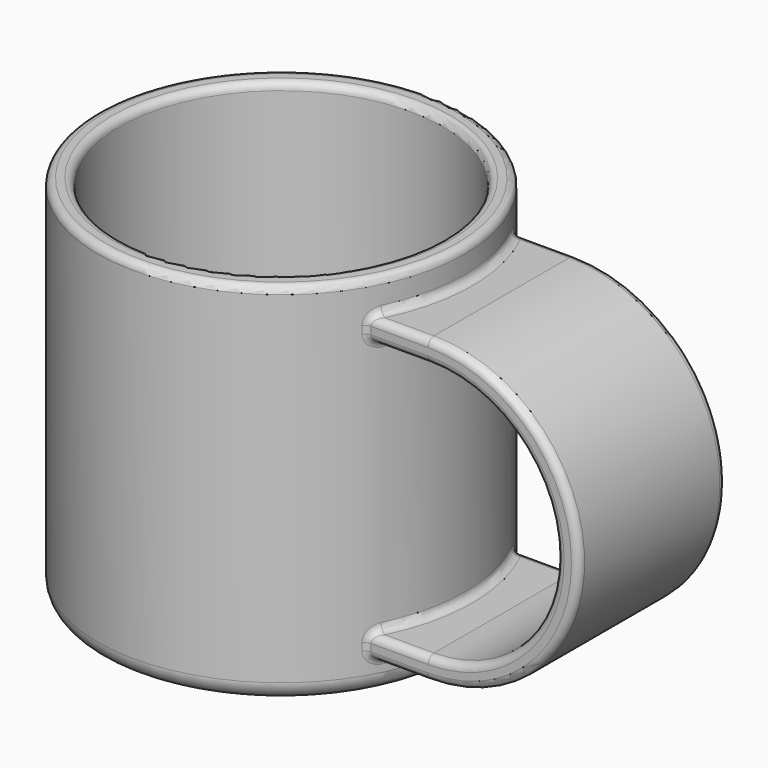
from build123d import *

# Parameters (mm, degrees)
SKETCH_R     = 50
PAD_DEPTH    = 100
PAD001_DEPTH = 25
SKETCH002_R  = 44
POCKET_DEPTH = 96
FILLET_R     = 2
FILLET001_R  = 2
FILLET002_R  = 5


with BuildPart() as part:
    # Sketch → Pad (new body)
    with BuildSketch(Plane.XY):
        Circle(SKETCH_R)
    extrude(amount=PAD_DEPTH)

    # Sketch001 → Pad001 (join, symmetric)
    with BuildSketch(Plane.XZ):
        with BuildLine():
            ThreePointArc((60, 9), (101, 50), (60, 91))
            Line((0, 91), (60, 91))
            Line((0, 85), (0, 91))
            Line((60, 85), (0, 85))
            ThreePointArc((60, 15), (95, 50), (60, 85))
            Line((60, 15), (0, 15))
            Line((0, 9), (0, 15))
            Line((0, 9), (60, 9))
        make_face()
    extrude(amount=PAD001_DEPTH, both=True)

    # Sketch002 (on Face8 of Pad001) → Pocket (cut)
    with BuildSketch(Plane.XY.offset(100)):
        Circle(SKETCH002_R)
    extrude(amount=-POCKET_DEPTH, mode=Mode.SUBTRACT)

    # Fillet
    fillet_edges = [part.edges().sort_by_distance(p)[0] for p in [
        (-44, 0, 100),
        (-50, 0, 100),
        (-44, 0, 4),
        (101, -25, 50),
        (95, -25, 50),
        (101, 25, 50),
        (95, 25, 50),
    ]]
    fillet(fillet_edges, radius=FILLET_R)

    # Fillet001
    fillet001_edges = [part.edges().sort_by_distance(p)[0] for p in [
        (48.578788, -11.836442, 91),
        (48.578788, -11.836442, 85),
        (48.578788, -11.836442, 15),
        (48.578788, -11.836442, 9),
    ]]
    fillet(fillet001_edges, radius=FILLET001_R)

    # Fillet002
    fillet002_edges = [part.edges().sort_by_distance(p)[0] for p in [
        (-50, 0, 0),
    ]]
    fillet(fillet002_edges, radius=FILLET002_R)


solid = part.part
